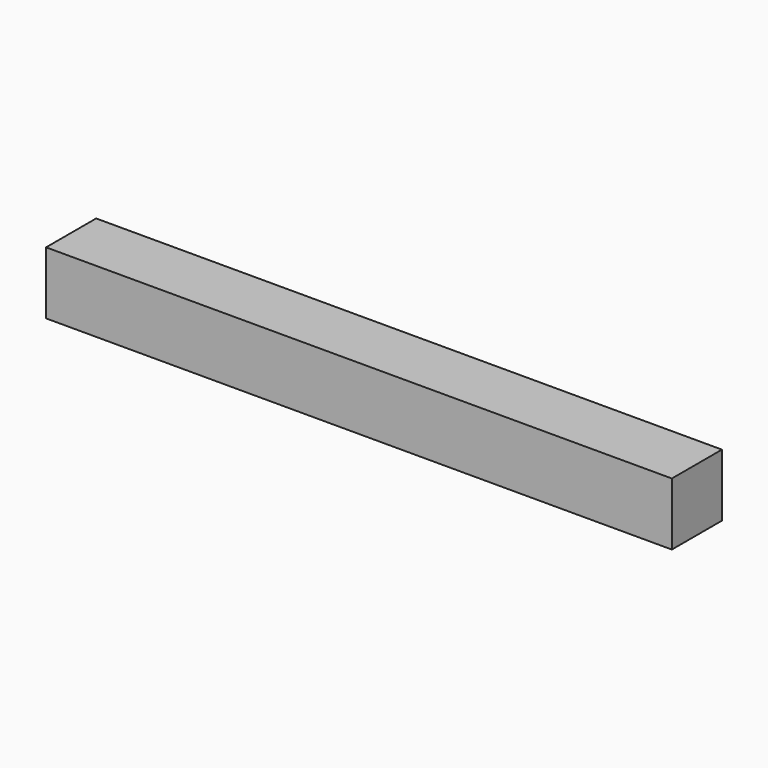
from build123d import *

# Parameters (mm, degrees)
BEAM_W     = 100
BEAM_H     = 10
BEAM_DEPTH = 10


with BuildPart() as part:
    # Beam → Beam (new body)
    with BuildSketch(Plane.XY):
        with Locations((50, 5)):
            Rectangle(BEAM_W, BEAM_H)
    extrude(amount=BEAM_DEPTH)


solid = part.part
